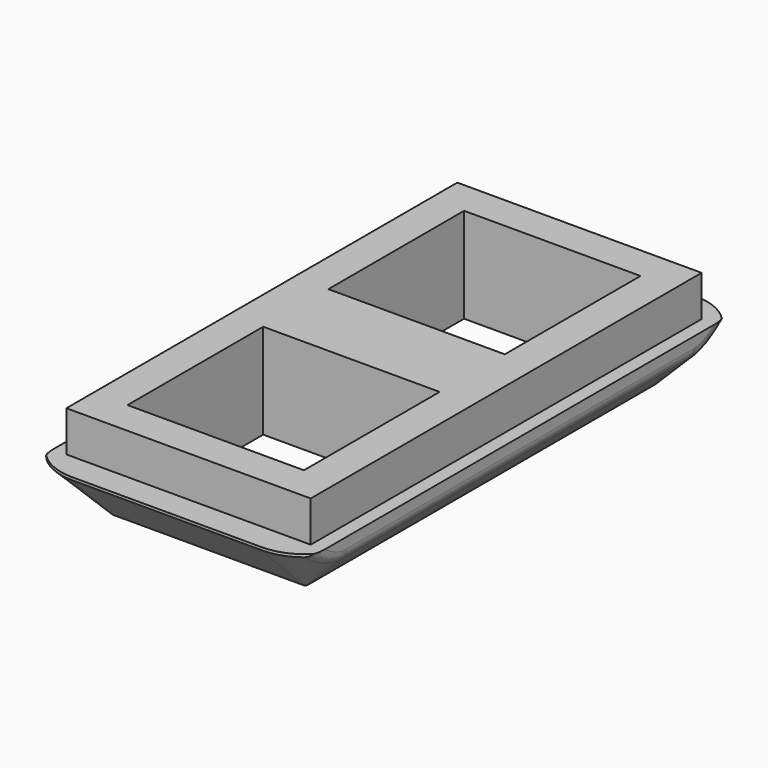
from build123d import *

# Parameters (mm, degrees)
SKETCH035_W     = 11
SKETCH035_H     = 20
PAD019_DEPTH    = 2
SKETCH036_W     = 6.5
SKETCH036_H     = 6.25
POCKET012_DEPTH = 5
FILLET007_R     = 2
CHAMFER_SIZE    = 1.9
SKETCH037_W     = 1.384659
SKETCH037_H     = 1.938071
SKETCH037_W_2   = 0.88585
SKETCH037_H_2   = 2.057402
POCKET013_DEPTH = 22
FILLET008_R     = 0.5
SKETCH045_W     = 9
SKETCH045_H     = 18
SKETCH045_W_2   = 6.5
SKETCH045_H_2   = 6.25
PAD021_DEPTH    = 1.5


with BuildPart() as part:
    # Sketch035 → Pad019 (new body)
    with BuildSketch(Plane.XY):
        with Locations((0, -47)):
            Rectangle(SKETCH035_W, SKETCH035_H)
    extrude(amount=-PAD019_DEPTH)

    # Sketch036 → Pocket012 (cut)
    with BuildSketch(Plane.XY):
        with Locations((0, -42.375)):
            Rectangle(SKETCH036_W, SKETCH036_H)
        with Locations((0, -51.625)):
            Rectangle(SKETCH036_W, SKETCH036_H)
    extrude(amount=-POCKET012_DEPTH, mode=Mode.SUBTRACT)

    # Fillet007
    fillet007_edges = [part.edges().sort_by_distance(p)[0] for p in [
        (-5.5, -37, -1),
        (5.5, -37, -1),
        (5.5, -57, -1),
        (-5.5, -57, -1),
    ]]
    fillet(fillet007_edges, radius=FILLET007_R)

    # Chamfer
    chamfer_edges = [part.edges().sort_by_distance(p)[0] for p in [
        (0, -37, -2),
        (-4.914214, -37.585786, -2),
        (4.914214, -37.585786, -2),
        (5.5, -47, -2),
        (4.914214, -56.414214, -2),
        (0, -57, -2),
        (-5.5, -47, -2),
        (-4.914214, -56.414214, -2),
    ]]
    chamfer(chamfer_edges, length=CHAMFER_SIZE)

    # Sketch037 → Pocket013 (cut)
    with BuildSketch(Plane.XZ.offset(36)):
        with Locations((5.692301, -0.969035)):
            Rectangle(SKETCH037_W, SKETCH037_H)
        with Locations((-5.443283, -1.028701)):
            Rectangle(SKETCH037_W_2, SKETCH037_H_2)
    extrude(amount=POCKET013_DEPTH, mode=Mode.SUBTRACT)

    # Fillet008
    fillet008_edges = [part.edges().sort_by_distance(p)[0] for p in [
        (4.999972, -47, -0.600028),
        (-5.000358, -47, -0.599642),
        (-5.000358, -55.695597, -0.446238),
        (4.999972, -55.695848, -0.446482),
        (-5.000358, -38.304403, -0.446238),
        (4.999972, -38.304152, -0.446482),
    ]]
    fillet(fillet008_edges, radius=FILLET008_R)

    # Sketch045 → Pad021 (join)
    with BuildSketch(Plane.XY):
        with Locations((0, -47)):
            Rectangle(SKETCH045_W, SKETCH045_H)
        with Locations((0, -42.375)):
            Rectangle(SKETCH045_W_2, SKETCH045_H_2, mode=Mode.SUBTRACT)
        with Locations((0, -51.625)):
            Rectangle(SKETCH045_W_2, SKETCH045_H_2, mode=Mode.SUBTRACT)
    extrude(amount=PAD021_DEPTH)


solid = part.part
